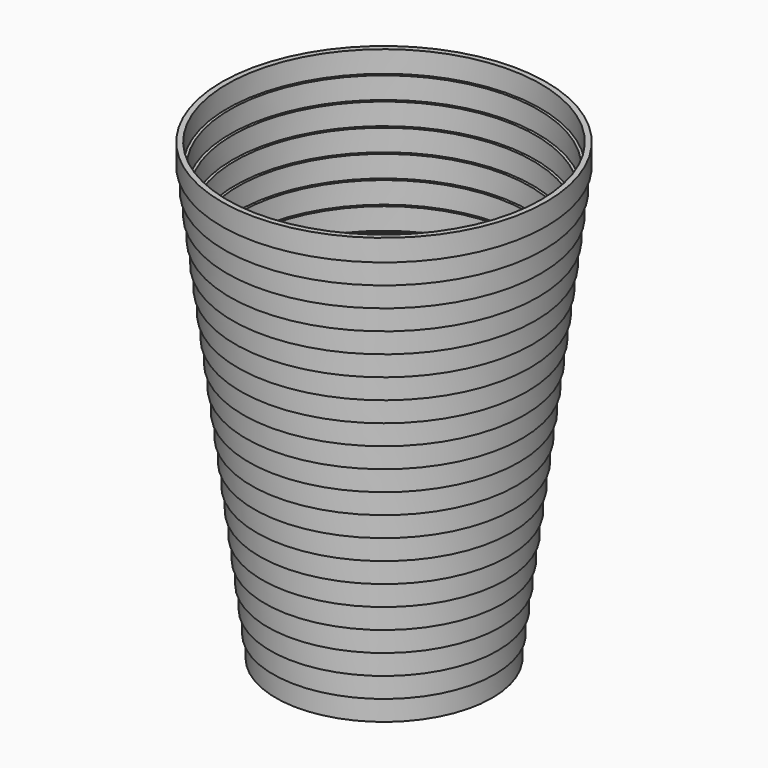
from build123d import *

# Parameters (mm, degrees)
F0_R      = 25.4
F1_DEPTH  = 5.08
F2_R      = 26.035
F2_R_2    = 25.4
F2_R_3    = 24.765
F3_DEPTH  = 5.08
F4_R      = 26.67
F4_R_2    = 26.035
F4_R_3    = 25.4
F5_DEPTH  = 5.08
F6_R      = 27.305
F6_R_2    = 26.67
F6_R_3    = 26.035
F7_DEPTH  = 5.08
F8_R      = 27.94
F8_R_2    = 27.305
F8_R_3    = 26.67
F9_DEPTH  = 5.08
F10_R     = 28.575
F10_R_2   = 27.94
F10_R_3   = 27.305
F11_DEPTH = 5.08
F12_R     = 29.21
F12_R_2   = 28.575
F12_R_3   = 27.94
F13_DEPTH = 5.08
F14_R     = 29.845
F14_R_2   = 29.21
F14_R_3   = 28.575
F15_DEPTH = 5.08
F16_R     = 30.48
F16_R_2   = 29.845
F16_R_3   = 29.21
F17_DEPTH = 5.08
F18_R     = 31.115
F18_R_2   = 30.48
F18_R_3   = 29.845
F19_DEPTH = 5.08
F20_R     = 31.75
F20_R_2   = 31.115
F20_R_3   = 30.48
F21_DEPTH = 5.08
F22_R     = 32.385
F22_R_2   = 31.75
F22_R_3   = 31.115
F23_DEPTH = 5.08
F24_R     = 33.02
F24_R_2   = 32.385
F24_R_3   = 31.75
F25_DEPTH = 5.08
F26_R     = 33.655
F26_R_2   = 33.02
F26_R_3   = 32.385
F27_DEPTH = 5.08
F28_R     = 34.29
F28_R_2   = 33.655
F28_R_3   = 33.02
F29_DEPTH = 5.08
F30_R     = 34.925
F30_R_2   = 34.29
F30_R_3   = 33.655
F31_DEPTH = 5.08
F32_R     = 35.56
F32_R_2   = 34.925
F32_R_3   = 34.29
F33_DEPTH = 5.08
F34_R     = 36.195
F34_R_2   = 35.56
F34_R_3   = 34.925
F35_DEPTH = 5.08
F36_R     = 36.83
F36_R_2   = 36.195
F36_R_3   = 35.56
F37_DEPTH = 5.08
F38_R     = 37.465
F38_R_2   = 36.83
F38_R_3   = 36.195
F39_DEPTH = 5.08
F40_R     = 38.1
F40_R_2   = 37.465
F40_R_3   = 36.83
F41_DEPTH = 5.08


with BuildPart() as f1:
    # F0 (on Top) → F1 (new body)
    with BuildSketch(Plane.XY):
        Circle(F0_R)
    extrude(amount=F1_DEPTH)

    # F2 (on face) → F3 (join)
    with BuildSketch(Plane.XY.offset(5.08)):
        Circle(F2_R)
        Circle(F2_R_2, mode=Mode.SUBTRACT)
        Circle(F2_R_2)
        Circle(F2_R_3, mode=Mode.SUBTRACT)
    extrude(amount=F3_DEPTH)

    # F4 (on face) → F5 (join)
    with BuildSketch(Plane.XY.offset(10.16)):
        Circle(F4_R)
        Circle(F4_R_2, mode=Mode.SUBTRACT)
        Circle(F4_R_2)
        Circle(F4_R_3, mode=Mode.SUBTRACT)
    extrude(amount=F5_DEPTH)

    # F6 (on face) → F7 (join)
    with BuildSketch(Plane.XY.offset(15.24)):
        Circle(F6_R)
        Circle(F6_R_2, mode=Mode.SUBTRACT)
        Circle(F6_R_2)
        Circle(F6_R_3, mode=Mode.SUBTRACT)
    extrude(amount=F7_DEPTH)

    # F8 (on face) → F9 (join)
    with BuildSketch(Plane.XY.offset(20.32)):
        Circle(F8_R)
        Circle(F8_R_2, mode=Mode.SUBTRACT)
        Circle(F8_R_2)
        Circle(F8_R_3, mode=Mode.SUBTRACT)
    extrude(amount=F9_DEPTH)

    # F10 (on face) → F11 (join)
    with BuildSketch(Plane.XY.offset(25.4)):
        Circle(F10_R)
        Circle(F10_R_2, mode=Mode.SUBTRACT)
        Circle(F10_R_2)
        Circle(F10_R_3, mode=Mode.SUBTRACT)
    extrude(amount=F11_DEPTH)

    # F12 (on face) → F13 (join)
    with BuildSketch(Plane.XY.offset(30.48)):
        Circle(F12_R)
        Circle(F12_R_2, mode=Mode.SUBTRACT)
        Circle(F12_R_2)
        Circle(F12_R_3, mode=Mode.SUBTRACT)
    extrude(amount=F13_DEPTH)

    # F14 (on face) → F15 (join)
    with BuildSketch(Plane.XY.offset(35.56)):
        Circle(F14_R)
        Circle(F14_R_2, mode=Mode.SUBTRACT)
        Circle(F14_R_2)
        Circle(F14_R_3, mode=Mode.SUBTRACT)
    extrude(amount=F15_DEPTH)

    # F16 (on face) → F17 (join)
    with BuildSketch(Plane.XY.offset(40.64)):
        Circle(F16_R)
        Circle(F16_R_2, mode=Mode.SUBTRACT)
        Circle(F16_R_2)
        Circle(F16_R_3, mode=Mode.SUBTRACT)
    extrude(amount=F17_DEPTH)

    # F18 (on face) → F19 (join)
    with BuildSketch(Plane.XY.offset(45.72)):
        Circle(F18_R)
        Circle(F18_R_2, mode=Mode.SUBTRACT)
        Circle(F18_R_2)
        Circle(F18_R_3, mode=Mode.SUBTRACT)
    extrude(amount=F19_DEPTH)

    # F20 (on face) → F21 (join)
    with BuildSketch(Plane.XY.offset(50.8)):
        Circle(F20_R)
        Circle(F20_R_2, mode=Mode.SUBTRACT)
        Circle(F20_R_2)
        Circle(F20_R_3, mode=Mode.SUBTRACT)
    extrude(amount=F21_DEPTH)

    # F22 (on face) → F23 (join)
    with BuildSketch(Plane.XY.offset(55.88)):
        Circle(F22_R)
        Circle(F22_R_2, mode=Mode.SUBTRACT)
        Circle(F22_R_2)
        Circle(F22_R_3, mode=Mode.SUBTRACT)
    extrude(amount=F23_DEPTH)

    # F24 (on face) → F25 (join)
    with BuildSketch(Plane.XY.offset(60.96)):
        Circle(F24_R)
        Circle(F24_R_2, mode=Mode.SUBTRACT)
        Circle(F24_R_2)
        Circle(F24_R_3, mode=Mode.SUBTRACT)
    extrude(amount=F25_DEPTH)

    # F26 (on face) → F27 (join)
    with BuildSketch(Plane.XY.offset(66.04)):
        Circle(F26_R)
        Circle(F26_R_2, mode=Mode.SUBTRACT)
        Circle(F26_R_2)
        Circle(F26_R_3, mode=Mode.SUBTRACT)
    extrude(amount=F27_DEPTH)

    # F28 (on face) → F29 (join)
    with BuildSketch(Plane.XY.offset(71.12)):
        Circle(F28_R)
        Circle(F28_R_2, mode=Mode.SUBTRACT)
        Circle(F28_R_2)
        Circle(F28_R_3, mode=Mode.SUBTRACT)
    extrude(amount=F29_DEPTH)

    # F30 (on face) → F31 (join)
    with BuildSketch(Plane.XY.offset(76.2)):
        Circle(F30_R)
        Circle(F30_R_2, mode=Mode.SUBTRACT)
        Circle(F30_R_2)
        Circle(F30_R_3, mode=Mode.SUBTRACT)
    extrude(amount=F31_DEPTH)

    # F32 (on face) → F33 (join)
    with BuildSketch(Plane.XY.offset(81.28)):
        Circle(F32_R)
        Circle(F32_R_2, mode=Mode.SUBTRACT)
        Circle(F32_R_2)
        Circle(F32_R_3, mode=Mode.SUBTRACT)
    extrude(amount=F33_DEPTH)

    # F34 (on face) → F35 (join)
    with BuildSketch(Plane.XY.offset(86.36)):
        Circle(F34_R)
        Circle(F34_R_2, mode=Mode.SUBTRACT)
        Circle(F34_R_2)
        Circle(F34_R_3, mode=Mode.SUBTRACT)
    extrude(amount=F35_DEPTH)

    # F36 (on face) → F37 (join)
    with BuildSketch(Plane.XY.offset(91.44)):
        Circle(F36_R)
        Circle(F36_R_2, mode=Mode.SUBTRACT)
        Circle(F36_R_2)
        Circle(F36_R_3, mode=Mode.SUBTRACT)
    extrude(amount=F37_DEPTH)

    # F38 (on face) → F39 (join)
    with BuildSketch(Plane.XY.offset(96.52)):
        Circle(F38_R)
        Circle(F38_R_2, mode=Mode.SUBTRACT)
        Circle(F38_R_2)
        Circle(F38_R_3, mode=Mode.SUBTRACT)
    extrude(amount=F39_DEPTH)

    # F40 (on face) → F41 (join)
    with BuildSketch(Plane.XY.offset(101.6)):
        Circle(F40_R)
        Circle(F40_R_2, mode=Mode.SUBTRACT)
        Circle(F40_R_2)
        Circle(F40_R_3, mode=Mode.SUBTRACT)
    extrude(amount=F41_DEPTH)


solid = f1.part
